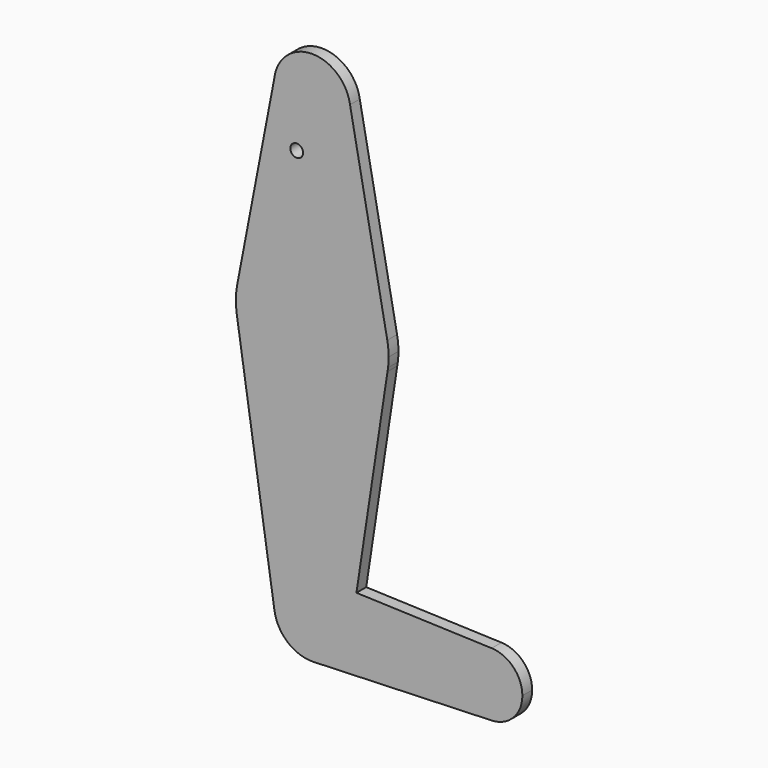
from build123d import *

# Parameters (mm, degrees)
F0_R     = 1.5875
F1_DEPTH = 3.048


with BuildPart() as f1:
    # F0 (on Front) → F1 (new body)
    with BuildSketch(Plane.XZ):
        with BuildLine():
            ThreePointArc((44.7324052713, -45.222847091), (50.1616327828, -42.8022829622), (52.3875, -37.2903724763))
            ThreePointArc((52.3875, -37.2903724763), (50.1616327851, -31.7784619927), (44.7324052778, -29.3578978618))
            ThreePointArc((44.7324052778, -29.3578978618), (36.5125, -37.290372473), (44.7324052713, -45.222847091))
        make_face()
        with BuildLine():
            ThreePointArc((44.7324052713, -45.222847091), (36.5125, -37.290372473), (44.7324052778, -29.3578978618))
            Line((44.7324052778, -29.3578978618), (11.0186015025, -28.157647425))
            Line((11.0186015025, -28.157647425), (9.4173646205, -38.7182653077))
            ThreePointArc((9.4173646205, -38.7182653077), (6.4629013023, -44.2872673548), (0.6773445355, -46.791258209))
            Line((0.6773445355, -46.791258209), (44.7324052713, -45.222847091))
        make_face()
        with BuildLine():
            Line((0.677344551, -27.789486708), (11.0186015025, -28.157647425))
            Line((11.0186015025, -28.157647425), (18.7591359864, 22.8934043045))
            ThreePointArc((18.7591359864, 22.8934043045), (0.0033422572, 7.1596277211), (-18.7579703659, 22.8868230415))
            Line((-18.7579703659, 22.8868230415), (-9.4173674019, -38.7182403899))
            ThreePointArc((-9.4173674019, -38.7182403899), (-7.2223977095, -31.0804941075), (0, -27.7653724579))
            ThreePointArc((0, -27.7653724579), (0.3388868317, -27.7714029206), (0.677344551, -27.789486708))
        make_face()
        with BuildLine():
            Line((9.4173646205, -38.7182653077), (11.0186015025, -28.157647425))
            Line((11.0186015025, -28.157647425), (0.677344551, -27.789486708))
            ThreePointArc((0.677344551, -27.789486708), (6.9705574023, -30.7990735549), (9.5250004983, -37.2903724579))
            ThreePointArc((9.5250004983, -37.2903724579), (9.498053411, -38.0063444323), (9.4173646205, -38.7182653077))
        make_face()
        with BuildLine():
            Line((0, -46.8153724579), (0.6773445355, -46.791258209))
            ThreePointArc((0.6773445355, -46.791258209), (6.4629013023, -44.2872673548), (9.4173646205, -38.7182653077))
            ThreePointArc((9.4173646205, -38.7182653077), (9.498053411, -38.0063444323), (9.5250004983, -37.2903724579))
            ThreePointArc((9.5250004983, -37.2903724579), (6.9705574023, -30.7990735549), (0.677344551, -27.789486708))
            Line((0.677344551, -27.789486708), (0, -27.7653724579))
            ThreePointArc((0, -27.7653724579), (-7.2223977095, -31.0804941075), (-9.4173674019, -38.7182403899))
            ThreePointArc((-9.4173674019, -38.7182403899), (-6.20987823, -44.5127703409), (0, -46.8153724579))
        make_face()
        with BuildLine():
            ThreePointArc((0, -46.8153724579), (0.3388868239, -46.8093419956), (0.6773445355, -46.791258209))
            Line((0.6773445355, -46.791258209), (0, -46.8153724579))
        make_face()
        with BuildLine():
            Line((18.8990219429, 23.8159924302), (18.7591359864, 22.8934043045))
            ThreePointArc((18.7591359864, 22.8934043045), (18.8347287444, 23.3538417285), (18.8990219429, 23.8159924302))
        make_face()
        with BuildLine():
            ThreePointArc((-18.7579703659, 22.8868230415), (0.0033422572, 7.1596277211), (18.7591359864, 22.8934043045))
            Line((18.7591359864, 22.8934043045), (18.8990219429, 23.8159924302))
            ThreePointArc((18.8990219429, 23.8159924302), (19.0122183939, 25.0104315487), (19.0500005001, 26.2096274279))
            ThreePointArc((19.0500005001, 26.2096274279), (18.9652221012, 28.004862683), (18.7116414847, 29.7841192325))
            ThreePointArc((18.7116414847, 29.7841192325), (0.0044973247, 45.2596268972), (-18.7099508547, 29.7929527413))
            ThreePointArc((-18.7099508547, 29.7929527413), (-19.0403678434, 26.8153281339), (-18.8998721955, 23.822723138))
            Line((-18.8998721955, 23.822723138), (-18.7579703659, 22.8868230415))
        make_face()
        with BuildLine():
            ThreePointArc((-18.8998721955, 23.822723138), (-18.8347353004, 23.353891564), (-18.7579703659, 22.8868230415))
            Line((-18.7579703659, 22.8868230415), (-18.8998721955, 23.822723138))
        make_face()
        with BuildLine():
            Line((-9.4683325494, 78.0470781171), (-18.7099508547, 29.7929527413))
            ThreePointArc((-18.7099508547, 29.7929527413), (0.0044973247, 45.2596268972), (18.7116414847, 29.7841192325))
            Line((18.7116414847, 29.7841192325), (9.4173646205, 78.4375170869))
            ThreePointArc((9.4173646205, 78.4375170869), (9.4980530376, 77.7255978408), (9.525, 77.0096275237))
            ThreePointArc((9.525, 77.0096275237), (-0.5194985403, 67.4988049375), (-9.4683325494, 78.0470781171))
        make_face()
        with Locations((-3.8756779395, 64.0499591827)):
            Circle(F0_R, mode=Mode.SUBTRACT)
        with BuildLine():
            ThreePointArc((9.4173646205, 78.4375170869), (-0.1968757977, 86.5325926565), (-9.4683325494, 78.0470781171))
            ThreePointArc((-9.4683325494, 78.0470781171), (-0.5194985403, 67.4988049375), (9.525, 77.0096275237))
            ThreePointArc((9.525, 77.0096275237), (9.4980530376, 77.7255978408), (9.4173646205, 78.4375170869))
        make_face()
    extrude(amount=F1_DEPTH)


solid = f1.part
